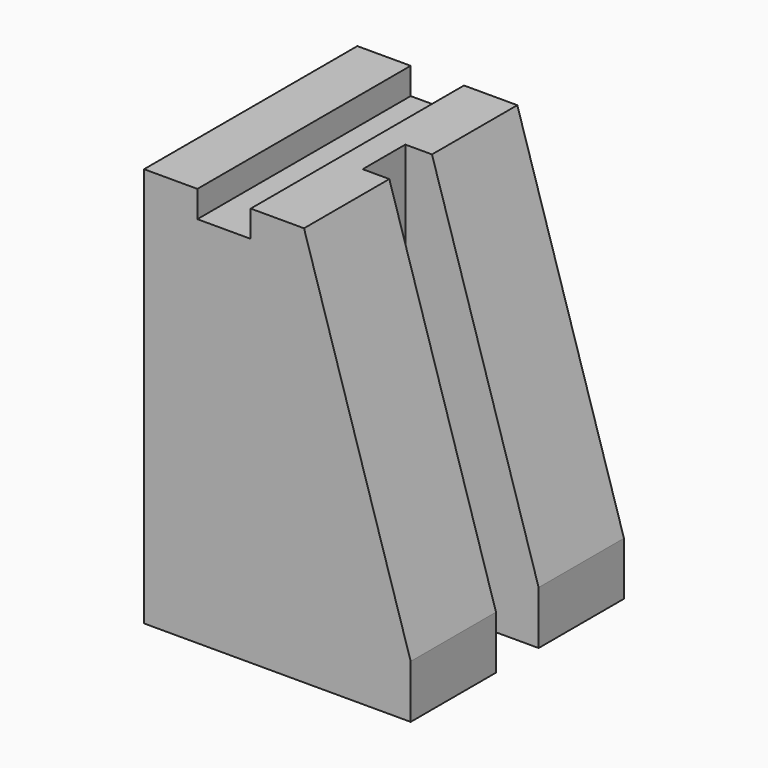
from build123d import *

# Parameters (mm, degrees)
F1_DEPTH = 100
F4_DEPTH = 150
F5_DEPTH = 100


with BuildPart() as f1:
    # F0 (on Front) → F1 (new body)
    with BuildSketch(Plane.XZ):
        Polygon((0, 150), (0, 0), (100, 0), (100, 20), (60, 150), (40, 150), (40, 140), (20, 140), (20, 150), align=None)
    extrude(amount=F1_DEPTH)

    # F3 (on face) → F4 (cut)
    with BuildSketch(Plane.XY.offset(150)):
        Polygon((60, -60), (60, -50), (60, -40), (50, -40), (50, -60), align=None)
    extrude(amount=-F4_DEPTH, mode=Mode.SUBTRACT)

    # F5 (cut): a face of the model
    f5_faces = [f1.faces().sort_by_distance(p)[0] for p in [
        (60, -50, 75),
    ]]
    extrude(f5_faces, amount=-F5_DEPTH, mode=Mode.SUBTRACT)


solid = f1.part
